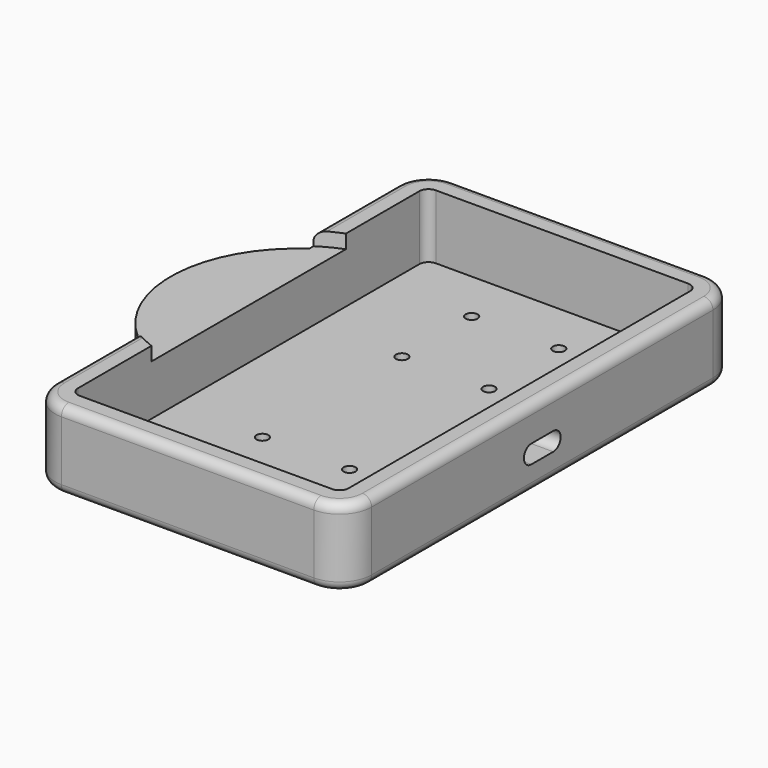
from build123d import *

# Parameters (mm, degrees)
PAD001_DEPTH    = 17
SKETCH003_W     = 59
SKETCH003_H     = 97
POCKET001_DEPTH = 14
SKETCH004_R     = 3
POCKET002_DEPTH = 1
SKETCH005_R     = 1.3
POCKET003_DEPTH = 3
SKETCH006_R     = 2.5
POCKET004_DEPTH = 1
FILLET001_R     = 7
FILLET002_R     = 2
FILLET003_R     = 2
SKETCH007_R     = 28.5
POCKET005_DEPTH = 3
SKETCH012_W     = 25
SKETCH012_H     = 2
POCKET007_DEPTH = 3.5
POCKET008_DEPTH = 6


with BuildPart() as part:
    # Sketch002 → Pad001 (new body)
    with BuildSketch(Plane.XY):
        with BuildLine():
            Line((0, 0), (69, 0))
            Line((69, 0), (69, 107))
            Line((69, 107), (0, 107))
            Line((0, 107), (0, 76.215633))
            ThreePointArc((0, 76.215633), (-12, 53.5), (0, 30.784367))
            Line((0, 0), (0, 30.784367))
        make_face()
    extrude(amount=PAD001_DEPTH)

    # Sketch003 (on Face8 of Pad001) → Pocket001 (cut)
    with BuildSketch(Plane.XY.offset(17)):
        with Locations((34.5, 53.5)):
            Rectangle(SKETCH003_W, SKETCH003_H)
    extrude(amount=-POCKET001_DEPTH, mode=Mode.SUBTRACT)

    # Sketch004 (on Face4 of Pocket001) → Pocket002 (cut)
    with BuildSketch(Plane(origin=(0, 0, 0), x_dir=(1, 0, 0), z_dir=(0, 0, -1))):
        with Locations((6, -6)):
            Circle(SKETCH004_R)
        with Locations((63, -6)):
            Circle(SKETCH004_R)
        with Locations((6, -101)):
            Circle(SKETCH004_R)
        with Locations((63, -101)):
            Circle(SKETCH004_R)
        with Locations((6, -37.666667)):
            Circle(SKETCH004_R)
        with Locations((6, -69.333333)):
            Circle(SKETCH004_R)
        with Locations((63, -37.666667)):
            Circle(SKETCH004_R)
        with Locations((63, -69.333333)):
            Circle(SKETCH004_R)
        with Locations((-6.5, -53.5)):
            Circle(SKETCH004_R)
    extrude(amount=-POCKET002_DEPTH, mode=Mode.SUBTRACT)

    # Sketch005 (on Face31 of Pocket002) → Pocket003 (cut)
    with BuildSketch(Plane.XY.offset(3)):
        with Locations((24, 14.5)):
            Circle(SKETCH005_R)
        with Locations((43, 14.5)):
            Circle(SKETCH005_R)
        with Locations((52.5, 24)):
            Circle(SKETCH005_R)
        with Locations((43, 33.5)):
            Circle(SKETCH005_R)
        with Locations((24, 33.5)):
            Circle(SKETCH005_R)
        with Locations((24.000052, 71.5)):
            Circle(SKETCH005_R)
        with Locations((43, 71.5)):
            Circle(SKETCH005_R)
        with Locations((43, 90.5)):
            Circle(SKETCH005_R)
        with Locations((24, 90.5)):
            Circle(SKETCH005_R)
        with Locations((52.5, 81)):
            Circle(SKETCH005_R)
    extrude(amount=-POCKET003_DEPTH, mode=Mode.SUBTRACT)

    # Sketch006 (on Face4 of Pocket003) → Pocket004 (cut)
    with BuildSketch(Plane(origin=(0, 0, 0), x_dir=(1, 0, 0), z_dir=(0, 0, -1))):
        with Locations((24, -14.5)):
            Circle(SKETCH006_R)
        with Locations((43, -14.5)):
            Circle(SKETCH006_R)
        with Locations((52.5, -24)):
            Circle(SKETCH006_R)
        with Locations((43, -33.5)):
            Circle(SKETCH006_R)
        with Locations((24, -33.5)):
            Circle(SKETCH006_R)
        with Locations((52.5, -81)):
            Circle(SKETCH006_R)
        with Locations((43, -71.5)):
            Circle(SKETCH006_R)
        with Locations((24.000052, -71.5)):
            Circle(SKETCH006_R)
        with Locations((24, -90.5)):
            Circle(SKETCH006_R)
        with Locations((43, -90.5)):
            Circle(SKETCH006_R)
    extrude(amount=-POCKET004_DEPTH, mode=Mode.SUBTRACT)

    # Fillet001
    fillet001_edges = [part.edges().sort_by_distance(p)[0] for p in [
        (69, 0, 8.5),
        (0, 0, 8.5),
        (69, 107, 8.5),
        (0, 107, 8.5),
    ]]
    fillet(fillet001_edges, radius=FILLET001_R)

    # Fillet002
    fillet002_edges = [part.edges().sort_by_distance(p)[0] for p in [
        (64, 102, 10),
        (64, 5, 10),
        (5, 5, 10),
        (5, 102, 10),
    ]]
    fillet(fillet002_edges, radius=FILLET002_R)

    # Fillet003
    fillet003_edges = [part.edges().sort_by_distance(p)[0] for p in [
        (34.5, 0, 0),
        (-12, 53.5, 0),
        (0, 18.892183, 17),
    ]]
    fillet(fillet003_edges, radius=FILLET003_R)

    # Sketch007 (on Face1 of Fillet003) → Pocket005 (cut)
    with BuildSketch(Plane.XY.offset(17)):
        with Locations((15.5, 53.5)):
            Circle(SKETCH007_R)
    extrude(amount=-POCKET005_DEPTH, mode=Mode.SUBTRACT)

    # Sketch012 (on Face16 of Pocket005) → Pocket007 (cut)
    with BuildSketch(Plane(origin=(64, 0, 0), x_dir=(0, -1, 0), z_dir=(-1, 0, 0))):
        with Locations((-53.5, 10)):
            Rectangle(SKETCH012_W, SKETCH012_H)
    extrude(amount=-POCKET007_DEPTH, mode=Mode.SUBTRACT)

    # Sketch013 (on Face16 of Pocket007) → Pocket008 (cut)
    with BuildSketch(Plane(origin=(64, 0, 0), x_dir=(0, -1, 0), z_dir=(-1, 0, 0))):
        with BuildLine():
            Line((-56.5, 9.5), (-50.5, 9.5))
            ThreePointArc((-50.5, 5.5), (-48.5, 7.5), (-50.5, 9.5))
            Line((-56.5, 5.5), (-50.5, 5.5))
            ThreePointArc((-56.5, 9.5), (-58.5, 7.5), (-56.5, 5.5))
        make_face()
    extrude(amount=-POCKET008_DEPTH, mode=Mode.SUBTRACT)


solid = part.part
